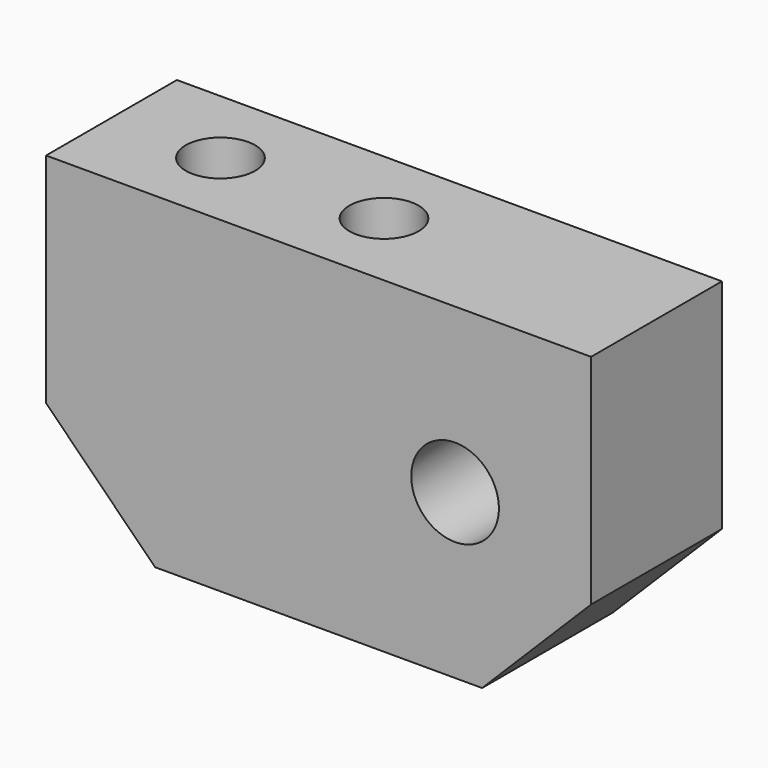
from build123d import *

# Parameters (mm, degrees)
F0_W     = 31.75
F0_H     = 19.05
F1_DEPTH = 9.525
F3_D     = 5.1054
F5_D     = 4.0386
F5_DEPTH = 15.875
F5_TIP   = 1.213317848
F6_SIZE  = 6.35


with BuildPart() as f1:
    # F0 (on Front) → F1 (new body)
    with BuildSketch(Plane.XZ):
        Rectangle(F0_W, F0_H)
    extrude(amount=F1_DEPTH)

    # F3 (through all)
    with Locations(Plane.XZ.offset(9.525)):
        with Locations((7.9502, 0)):
            Hole(F3_D / 2)

    # F5
    with Locations(Plane.XY.offset(9.525)):
        with Locations((-9.525, -4.7625), (0, -4.7625)):
            Hole(F5_D / 2, depth=F5_DEPTH)
            with Locations((0, 0, -(F5_DEPTH + F5_TIP / 2))):  # 118° drill point
                Cone(0, F5_D / 2, F5_TIP, mode=Mode.SUBTRACT)

    # F6
    f6_edges = [f1.edges().sort_by_distance(p)[0] for p in [
        (-15.875, -4.7625, -9.525),
        (15.875, -4.7625, -9.525),
    ]]
    chamfer(f6_edges, length=F6_SIZE)


solid = f1.part
